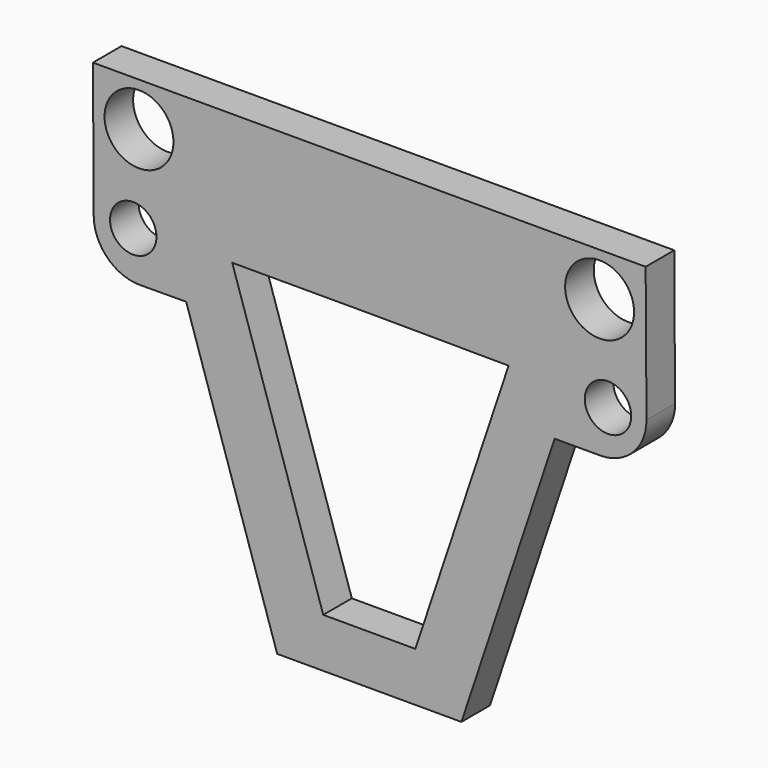
from build123d import *

# Parameters (mm, degrees)
F0_R     = 1.6002
F0_R_2   = 2.3749
F1_DEPTH = 2.4638


with BuildPart() as f1:
    # F0 (on Front) → F1 (new body)
    with BuildSketch(Plane.XZ):
        with BuildLine():
            Line((30.803165, 27.752104), (-7.296835, 27.752104))
            Line((-7.296835, 27.752104), (-7.240266, 18.437498))
            ThreePointArc((-7.240266, 18.437498), (-6.286852, 16.216634), (-4.046344, 15.310343))
            Line((-4.046344, 15.310343), (-0.869708, 15.329635))
            Line((-0.869708, 15.329635), (5.403165, -3.997896))
            Line((5.403165, -3.997896), (11.753165, -3.997896))
            Line((11.753165, -3.997896), (18.103165, -3.997896))
            Line((18.103165, -3.997896), (24.528914, 15.279349))
            Line((24.528914, 15.279349), (27.703914, 15.279349))
            ThreePointArc((27.703914, 15.279349), (29.943251, 16.222922), (30.859515, 18.473572))
            Line((30.859515, 18.473572), (30.803165, 27.752104))
        make_face()
        Polygon((14.928165, -0.597919), (11.753165, -0.597919), (8.578165, -0.597919), (2.305292, 18.729612), (11.753165, 18.729612), (21.353914, 18.679325), align=None, mode=Mode.SUBTRACT)
        with Locations((-4.519141, 18.598825)):
            Circle(F0_R, mode=Mode.SUBTRACT)
        with Locations((-4.121835, 24.740549)):
            Circle(F0_R_2, mode=Mode.SUBTRACT)
        with Locations((28.207415, 18.36364)):
            Circle(F0_R, mode=Mode.SUBTRACT)
        with Locations((27.628165, 24.740549)):
            Circle(F0_R_2, mode=Mode.SUBTRACT)
    extrude(amount=F1_DEPTH)


solid = f1.part
